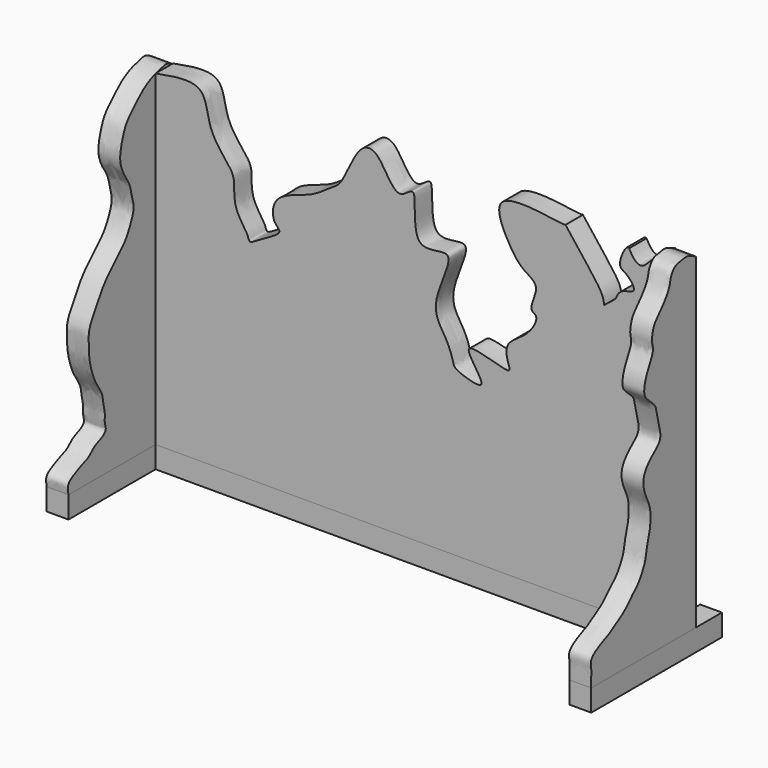
from build123d import *

# Parameters (mm, degrees)
F0_W     = 2
F0_H     = 3
F0_W_2   = 46
F0_H_2   = 2
F0_H_3   = 10
F1_DEPTH = 2
F3_DEPTH = 2
F5_DEPTH = 2
F7_DEPTH = 2


with BuildPart() as f1:
    # F0 (on Top) → F1 (new body)
    with BuildSketch(Plane.XY):
        with Locations((14.6300533563, 32.654664129)):
            Rectangle(F0_W, F0_H)
        with Locations((-9.3699466437, 30.154664129)):
            Rectangle(F0_W_2, F0_H_2)
        with Locations((14.6300533563, 30.154664129)):
            Rectangle(F0_W, F0_H_2)
        with Locations((-33.3699466437, 30.154664129)):
            Rectangle(F0_W, F0_H_2)
        Polygon((-34.3699466437, 31.154664129), (-32.3699466437, 31.154664129), (-32.3699466437, 31.1602265835), (-32.3699466437, 34.1602265835), (-34.3699466437, 34.154664129), align=None)
        with Locations((14.6300533563, 24.154664129)):
            Rectangle(F0_W, F0_H_3)
        with Locations((-33.3699466437, 24.154664129)):
            Rectangle(F0_W, F0_H_3)
    extrude(amount=F1_DEPTH)


with BuildPart() as f3:
    # F2 (on face) → F3 (new body)
    with BuildSketch(Plane.XZ.offset(-29.154664129)):
        with BuildLine():
            Line((-32.3699466437, 32), (-32.3699466437, 2))
            Line((-32.3699466437, 2), (13.6300533563, 2))
            Line((13.6300533563, 2), (13.6300533563, 32))
            add(Edge.make_bspline(
                [(13.7539593975, 32.0540351073), (13.7126573837, 32.0360234049), (13.67135537, 32.0180117024), (13.6300533563, 32)],
                knots=[0.0675879055, 0.0675879055, 0.0675879055, 0.0675879055, 0.2027637164, 0.2027637164, 0.2027637164, 0.2027637164], degree=3))
            add(Edge.make_bspline(
                [(11.1051108688, 32), (12.3683735728, 29.6276286244), (12.8710098879, 32.0360234049), (13.7539593975, 32.0540351073)],
                knots=[0, 0, 0, 0, 2.6493996151, 2.6493996151, 2.6493996151, 2.6493996151], degree=3))
            add(Edge.make_bspline(
                [(9.8539674655, 27.4935420603), (9.9950352133, 27.8260106211), (10.2825031537, 28.5035152523), (12.0080236168, 28.5024828432), (10.9260187917, 29.9485572376), (9.9105646742, 30.1766407122), (10.8047361852, 32.1533787201), (11.0433089366, 32.0315575905), (11.1051108688, 32)],
                knots=[0, 0, 0, 0, 0.173453797, 0.3534642508, 0.5407772667, 0.700555036, 0.9224292077, 1, 1, 1, 1], degree=3))
            add(Edge.make_bspline(
                [(8.8113518432, 26.6594476998), (9.1588903839, 26.9374791533), (9.5064289247, 27.2155106068), (9.8539674655, 27.4935420603)],
                knots=[0, 0, 0, 0, 1.3352006359, 1.3352006359, 1.3352006359, 1.3352006359], degree=3))
            add(Edge.make_bspline(
                [(5.2664573304, 32), (5.8819819393, 31.2015904749), (7.0585775463, 29.6754043139), (8.7018883483, 27.6049199488), (8.7819310434, 26.9135648353), (8.8113518432, 26.6594476998)],
                knots=[0, 0, 0, 0, 0.4096170942, 0.7829965962, 1, 1, 1, 1], degree=3))
            add(Edge.make_bspline(
                [(-32.3699466437, 32), (-30.7857702558, 32.3012675249), (-27.6063717124, 32.9059031804), (-27.6953518709, 28.9694099124), (-25.5183276093, 26.7375704025), (-25.0597096391, 25.6499307274), (-25.3067442701, 23.4552823708), (-23.8498559043, 21.8016698153), (-23.8131584675, 20.9798278679), (-22.4905187382, 21.9159530492), (-20.5540127118, 22.86437204), (-21.6936216233, 23.4678094757), (-21.6819884934, 25.9823024419), (-17.9613509218, 26.6258421597), (-16.4697838899, 27.985299651), (-15.1476173323, 28.4879940768), (-13.8777468963, 32.4004120722), (-11.7537789199, 32.4890551084), (-10.2908255738, 28.491363781), (-8.0604127867, 31.4425354815), (-9.283908454, 24.7459143052), (-4.0421974577, 27.2851059344), (-7.5015816776, 21.5696964807), (-5.7327807113, 19.5162921715), (-5.1500837161, 17.9663971602), (-4.9945750982, 17.2056226204), (-4.4729991878, 16.8509889919), (-1.1005515825, 15.8091894846), (-5.5964316503, 20.5362873398), (0.5553748499, 17.9318329849), (-0.1010193311, 19.2541010328), (-0.3443320993, 20.8856468811), (1.8240331693, 21.753378251), (2.9488845568, 23.8647975816), (1.7096861423, 24.0091370266), (3.1225546959, 26.2811035247), (1.2731861337, 27.0403360649), (0.0162647592, 28.6990822909), (-2.1071318452, 33.2956312734), (4.8932244922, 31.9142579298), (5.1648132021, 31.9869077789), (5.2664573304, 32)],
                knots=[0, 0, 0, 0, 0.036641198, 0.0682460897, 0.0997654323, 0.1190256251, 0.1453368863, 0.1719678937, 0.1843788261, 0.2058751594, 0.230217877, 0.2459775415, 0.2709530769, 0.3047205745, 0.330212858, 0.3512146916, 0.3864465928, 0.408405471, 0.4408952016, 0.4617898081, 0.4977032876, 0.5264760896, 0.5640635425, 0.5935818377, 0.6164861973, 0.6312453597, 0.6470050242, 0.6719805535, 0.7018302616, 0.7364529854, 0.7508284456, 0.7727873239, 0.8000932682, 0.8249150896, 0.8388734268, 0.8640743281, 0.8861443959, 0.914364128, 0.9462877369, 0.9882624793, 1, 1, 1, 1], degree=3))
        make_face()
    extrude(amount=-F3_DEPTH)


with BuildPart() as f5:
    # F4 (on face) → F5 (new body)
    with BuildSketch(Plane.YZ.offset(-32.3699466437)):
        with BuildLine():
            add(Edge.make_bspline(
                [(19.154664129, 2), (19.0933385144, 2.3139790257), (18.9662737617, 2.9645337328), (19.975499597, 3.4676055379), (20.8629867742, 3.8977717701), (21.5029587541, 4.0628157229), (22.0450487865, 4.7055756638), (22.7074335744, 4.9393107544), (23.6181172044, 5.4021777774), (23.2427281431, 6.1709899376), (23.3966074603, 6.8282483488), (23.1173120357, 7.7636422246), (23.0858243156, 8.628747023), (22.3460850008, 9.6065142247), (21.8631526048, 10.6849780819), (21.5062728988, 12.0372523365), (21.475826349, 13.3063387242), (21.439734642, 14.4464664508), (22.2472021653, 15.7529392468), (22.9500524, 17.0255084773), (23.6494592142, 17.8717161349), (24.4991866567, 18.6988392627), (25.468857374, 19.6106237837), (26.0420564681, 20.4221783211), (26.5718067918, 21.6456454833), (26.6781618184, 22.3949182138), (26.3398207507, 23.5082867772), (26.16536613, 24.3748821447), (25.549081959, 25.176631285), (24.9054692005, 26.6139692371), (25.3319716032, 28.2263257982), (25.7562593201, 29.4481462882), (26.8726282908, 30.4977165849), (27.878313359, 31.4488422063), (28.9580740205, 31.9519409895), (29.5440883459, 32.0670779579), (30.427834372, 32.3927856065), (30.9143307713, 32.0890011937), (31.154664129, 31.9389291108)],
                knots=[0, 0, 0, 0, 0.0252138631, 0.0522423347, 0.079552912, 0.1012349273, 0.125090923, 0.1485880933, 0.1734333102, 0.1957418418, 0.2179640796, 0.2442346956, 0.2693247209, 0.2986088389, 0.3283379049, 0.3602448345, 0.3907076413, 0.4190773501, 0.4523073441, 0.4851677667, 0.5132837905, 0.5428298894, 0.5738181148, 0.6012679167, 0.6319309372, 0.6555735849, 0.6842713217, 0.7096576137, 0.7364880496, 0.769847092, 0.8043053341, 0.8349683546, 0.8680151028, 0.9004372915, 0.9292153025, 0.9504141499, 0.9755041684, 1, 1, 1, 1], degree=3))
            Line((19.154664129, 2), (31.154664129, 2))
            Line((31.154664129, 2), (31.154664129, 31.9389291108))
        make_face()
    extrude(amount=-F5_DEPTH)


with BuildPart() as f7:
    # F6 (on face) → F7 (new body)
    with BuildSketch(Plane(origin=(13.6300533563, 0, 0), x_dir=(0, -1, 0), z_dir=(-1, 0, 0))):
        with BuildLine():
            Line((-31.154664129, 2), (-19.154664129, 2))
            add(Edge.make_bspline(
                [(-19.154664129, 2), (-19.1502503448, 2.2907234716), (-19.1418274752, 2.8455140429), (-19.2005675999, 3.5438559864), (-18.957038705, 4.3430516246), (-20.12709836, 5.109595789), (-21.0371999465, 5.4205918506), (-21.5242265501, 5.7560480704), (-22.3641102264, 6.2709502898), (-23.0536202606, 6.7071310388), (-23.9275516734, 7.6872233576), (-24.5637462648, 8.2035222053), (-25.0507261122, 9.0647827525), (-25.3881451051, 9.7511581033), (-25.4963783046, 10.7676899935), (-25.8709348642, 11.8568143519), (-25.9489385284, 12.5498604587), (-25.9806219538, 13.4827436874), (-25.7716219613, 14.2864327153), (-25.293812229, 15.1511950163), (-25.0175893746, 16.2869765293), (-25.470950506, 17.3275945568), (-26.4198913146, 18.1687156609), (-27.2286560213, 18.8122271497), (-26.9559367945, 20.0862565759), (-26.6100681431, 21.2699874607), (-26.5751235631, 21.9308935243), (-25.3058214476, 22.820242691), (-25.1866035678, 23.602371728), (-25.4385850971, 24.799727113), (-26.4415275196, 26.3767737526), (-26.0328862878, 27.048921241), (-26.2671552151, 28.3963793676), (-26.933231028, 29.0537803159), (-28.2083406604, 30.5349898394), (-28.2063618854, 31.5765594703), (-28.8229750892, 32.2407995737), (-29.1359145727, 32.2920010593), (-29.7667054865, 32.4045465687), (-30.2667030374, 32.4566479765), (-30.8271359047, 32.1684365479), (-31.154664129, 32)],
                knots=[0, 0, 0, 0, 0.0242688359, 0.0463124675, 0.0683560991, 0.097943624, 0.1240909186, 0.144209792, 0.1698004628, 0.1942371555, 0.2239615262, 0.2482313843, 0.273822041, 0.2968148067, 0.3234215902, 0.351554837, 0.373710086, 0.3987052093, 0.42263072, 0.4487780234, 0.4766367763, 0.5039799149, 0.5337043087, 0.5590024617, 0.5879143217, 0.6172169683, 0.6381701072, 0.6695023581, 0.6919826839, 0.7212853304, 0.7561037572, 0.7782590063, 0.8073192431, 0.8336664229, 0.8696002351, 0.8965211748, 0.9198056701, 0.9346217423, 0.9551704534, 0.9738007125, 1, 1, 1, 1], degree=3))
            Line((-31.154664129, 32), (-31.154664129, 2))
        make_face()
    extrude(amount=-F7_DEPTH)


solid = Compound([f1.part, f3.part, f5.part, f7.part])
